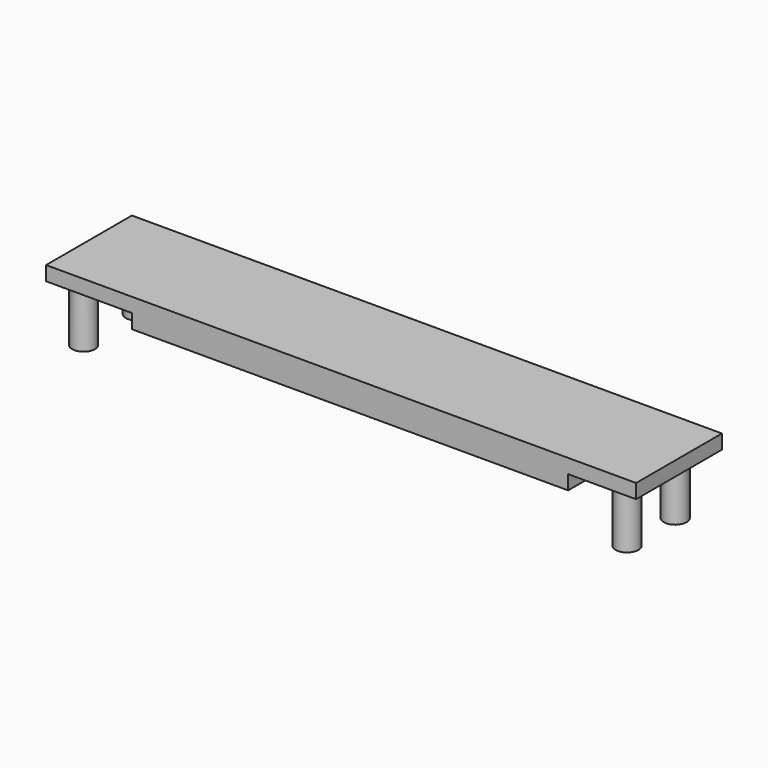
from build123d import *

# Parameters (mm, degrees)
CYLINDER_R        = 1.6
CYLINDER_DEPTH    = 10
BOX001_W          = 61
BOX001_H          = 15
BOX001_DEPTH      = 2
BOX_W             = 82.5
BOX_H             = 15
BOX_DEPTH         = 2
CYLINDER003_R     = 1.6
CYLINDER003_DEPTH = 10
CYLINDER002_R     = 1.6
CYLINDER002_DEPTH = 10
CYLINDER001_R     = 1.6
CYLINDER001_DEPTH = 10


with BuildPart() as taladro1:
    # Cylinder → Cylinder (new body)
    with BuildSketch(Plane(origin=(0, 1.2, -10), x_dir=(1, 0, 0), z_dir=(0, 0, 1))):
        Circle(CYLINDER_R)
    extrude(amount=CYLINDER_DEPTH)


with BuildPart() as perfora_2mm_centro:
    # Box001 → Box001 (new body)
    with BuildSketch(Plane(origin=(12, 0, -2), x_dir=(1, 0, 0), z_dir=(0, 0, 1))):
        with Locations((30.5, 7.5)):
            Rectangle(BOX001_W, BOX001_H)
    extrude(amount=BOX001_DEPTH)


with BuildPart() as fusion001:
    # Box → Box (new body)
    with BuildSketch(Plane.XY):
        with Locations((41.25, 7.5)):
            Rectangle(BOX_W, BOX_H)
    extrude(amount=BOX_DEPTH)

    # Fusion: union perfora_2mm_centro
    add(perfora_2mm_centro.part)


with BuildPart() as fusion001_1:
    # Fusion placement: moved
    add(fusion001.part.moved(Location((-3, -11, -2))))

    # Fusion001: union taladro1
    add(taladro1.part)


with BuildPart() as fusion002:
    # Cylinder003 → Cylinder003 (new body)
    with BuildSketch(Plane(origin=(76, 0.2, -10), x_dir=(1, 0, 0), z_dir=(0, 0, 1))):
        Circle(CYLINDER003_R)
    extrude(amount=CYLINDER003_DEPTH)

    # Fusion002: union Fusion001
    add(fusion001_1.part)


with BuildPart() as fusion003:
    # Cylinder002 → Cylinder002 (new body)
    with BuildSketch(Plane(origin=(76, -8.2, -10), x_dir=(1, 0, 0), z_dir=(0, 0, 1))):
        Circle(CYLINDER002_R)
    extrude(amount=CYLINDER002_DEPTH)

    # Fusion003: union Fusion002
    add(fusion002.part)


with BuildPart() as fusion004:
    # Cylinder001 → Cylinder001 (new body)
    with BuildSketch(Plane(origin=(0, -8.2, -10), x_dir=(1, 0, 0), z_dir=(0, 0, 1))):
        Circle(CYLINDER001_R)
    extrude(amount=CYLINDER001_DEPTH)

    # Fusion004: union Fusion003
    add(fusion003.part)


solid = fusion004.part
